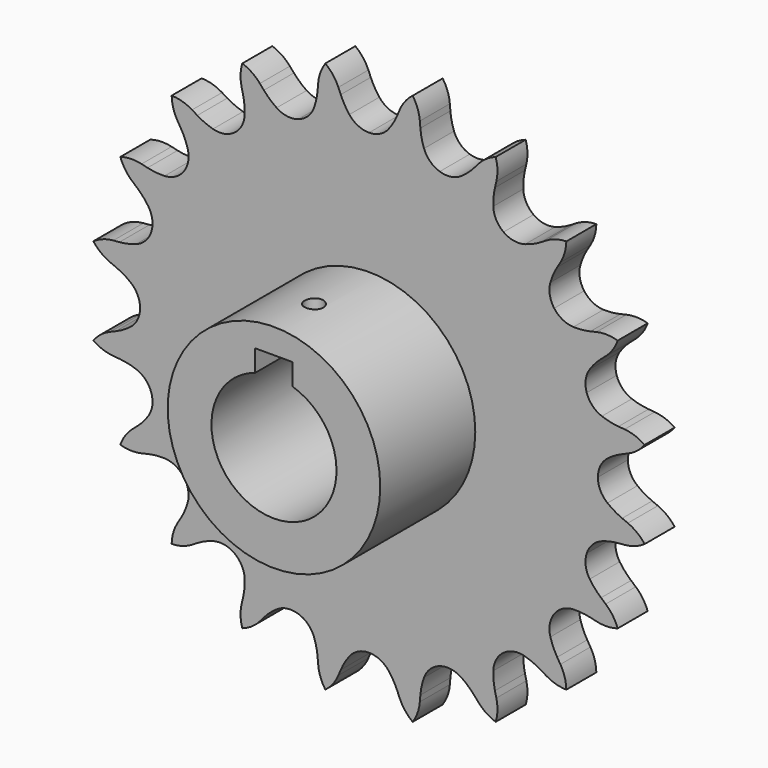
from build123d import *

# Parameters (mm, degrees)
F1_R     = 17
F2_DEPTH = 25
F3_DEPTH = 6
F4_W     = 6
F4_H     = 13
F5_DEPTH = 25
F6_R     = 10
F7_DEPTH = 25
F8_R     = 1.5
F9_DEPTH = 25


with BuildPart() as f2:
    # F1 (on Front) → F2 (new body)
    with BuildSketch(Plane.XZ):
        Circle(F1_R)
    extrude(amount=F2_DEPTH)

    # F0 (on Front) → F3 (join)
    with BuildSketch(Plane.XZ):
        with BuildLine():
            ThreePointArc((0, 36.6108), (-1.745287, 37.013731), (-3.137307, 38.140967))
            ThreePointArc((-3.137307, 38.140967), (-3.905976, 39.272029), (-4.518303, 40.494817))
            Line((-4.518303, 40.494817), (-4.899496, 41.40164))
            ThreePointArc((-4.899496, 41.40164), (-5.764305, 42.881522), (-6.982711, 44.087105))
            ThreePointArc((-6.982711, 44.087105), (-7.768939, 42.564019), (-8.134113, 40.889327))
            Line((-8.134113, 40.889327), (-8.216425, 39.909091))
            ThreePointArc((-8.216425, 39.909091), (-8.42092, 38.556932), (-8.802451, 37.243696))
            ThreePointArc((-8.802451, 37.243696), (-9.778005, 35.741474), (-11.313359, 34.81894))
            ThreePointArc((-11.313359, 34.81894), (-13.097739, 34.662827), (-14.769963, 35.304734))
            ThreePointArc((-14.769963, 35.304734), (-15.850528, 36.142906), (-16.810748, 37.116627))
            Line((-16.810748, 37.116627), (-17.453508, 37.861272))
            ThreePointArc((-17.453508, 37.861272), (-18.733299, 39.001483), (-20.264618, 39.771552))
            ThreePointArc((-20.264618, 39.771552), (-20.541705, 38.080053), (-20.371498, 36.374482))
            Line((-20.371498, 36.374482), (-20.146872, 35.416786))
            ThreePointArc((-20.146872, 35.416786), (-19.923518, 34.067614), (-19.880563, 32.700753))
            ThreePointArc((-19.880563, 32.700753), (-20.344158, 30.970592), (-21.519288, 29.618759))
            ThreePointArc((-21.519288, 29.618759), (-23.168092, 28.918884), (-24.956833, 29.012628))
            ThreePointArc((-24.956833, 29.012628), (-26.243521, 29.475864), (-27.45764, 30.105203))
            Line((-27.45764, 30.105203), (-28.299049, 30.614779))
            ThreePointArc((-28.299049, 30.614779), (-29.868547, 31.303706), (-31.562882, 31.562882))
            ThreePointArc((-31.562882, 31.562882), (-31.303706, 29.868547), (-30.614779, 28.299049))
            Line((-30.614779, 28.299049), (-30.105203, 27.45764))
            ThreePointArc((-30.105203, 27.45764), (-29.475864, 26.243521), (-29.012628, 24.956833))
            ThreePointArc((-29.012628, 24.956833), (-28.918884, 23.168092), (-29.618759, 21.519288))
            ThreePointArc((-29.618759, 21.519288), (-30.970592, 20.344158), (-32.700753, 19.880563))
            ThreePointArc((-32.700753, 19.880563), (-34.067614, 19.923518), (-35.416786, 20.146872))
            Line((-35.416786, 20.146872), (-36.374482, 20.371498))
            ThreePointArc((-36.374482, 20.371498), (-38.080053, 20.541705), (-39.771552, 20.264618))
            ThreePointArc((-39.771552, 20.264618), (-39.001483, 18.733299), (-37.861272, 17.453508))
            Line((-37.861272, 17.453508), (-37.116627, 16.810748))
            ThreePointArc((-37.116627, 16.810748), (-36.142906, 15.850528), (-35.304734, 14.769963))
            ThreePointArc((-35.304734, 14.769963), (-34.662827, 13.097739), (-34.81894, 11.313359))
            ThreePointArc((-34.81894, 11.313359), (-35.741474, 9.778005), (-37.243696, 8.802451))
            ThreePointArc((-37.243696, 8.802451), (-38.556932, 8.42092), (-39.909091, 8.216425))
            Line((-39.909091, 8.216425), (-40.889327, 8.134113))
            ThreePointArc((-40.889327, 8.134113), (-42.564019, 7.768939), (-44.087105, 6.982711))
            ThreePointArc((-44.087105, 6.982711), (-42.881522, 5.764305), (-41.40164, 4.899496))
            Line((-41.40164, 4.899496), (-40.494817, 4.518303))
            ThreePointArc((-40.494817, 4.518303), (-39.272029, 3.905976), (-38.140967, 3.137307))
            ThreePointArc((-38.140967, 3.137307), (-37.013731, 1.745287), (-36.6108, 0))
            ThreePointArc((-36.6108, 0), (-37.013731, -1.745287), (-38.140967, -3.137307))
            ThreePointArc((-38.140967, -3.137307), (-39.272029, -3.905976), (-40.494817, -4.518303))
            Line((-40.494817, -4.518303), (-41.40164, -4.899496))
            ThreePointArc((-41.40164, -4.899496), (-42.881522, -5.764305), (-44.087105, -6.982711))
            ThreePointArc((-44.087105, -6.982711), (-42.564019, -7.768939), (-40.889327, -8.134113))
            Line((-40.889327, -8.134113), (-39.909091, -8.216425))
            ThreePointArc((-39.909091, -8.216425), (-38.556932, -8.42092), (-37.243696, -8.802451))
            ThreePointArc((-37.243696, -8.802451), (-35.741474, -9.778005), (-34.81894, -11.313359))
            ThreePointArc((-34.81894, -11.313359), (-34.662827, -13.097739), (-35.304734, -14.769963))
            ThreePointArc((-35.304734, -14.769963), (-36.142906, -15.850528), (-37.116627, -16.810748))
            Line((-37.116627, -16.810748), (-37.861272, -17.453508))
            ThreePointArc((-37.861272, -17.453508), (-39.001483, -18.733299), (-39.771552, -20.264618))
            ThreePointArc((-39.771552, -20.264618), (-38.080053, -20.541705), (-36.374482, -20.371498))
            Line((-36.374482, -20.371498), (-35.416786, -20.146872))
            ThreePointArc((-35.416786, -20.146872), (-34.067614, -19.923518), (-32.700753, -19.880563))
            ThreePointArc((-32.700753, -19.880563), (-30.970592, -20.344158), (-29.618759, -21.519288))
            ThreePointArc((-29.618759, -21.519288), (-28.918884, -23.168092), (-29.012628, -24.956833))
            ThreePointArc((-29.012628, -24.956833), (-29.475864, -26.243521), (-30.105203, -27.45764))
            Line((-30.105203, -27.45764), (-30.614779, -28.299049))
            ThreePointArc((-30.614779, -28.299049), (-31.303706, -29.868547), (-31.562882, -31.562882))
            ThreePointArc((-31.562882, -31.562882), (-29.868547, -31.303706), (-28.299049, -30.614779))
            Line((-28.299049, -30.614779), (-27.45764, -30.105203))
            ThreePointArc((-27.45764, -30.105203), (-26.243521, -29.475864), (-24.956833, -29.012628))
            ThreePointArc((-24.956833, -29.012628), (-23.168092, -28.918884), (-21.519288, -29.618759))
            ThreePointArc((-21.519288, -29.618759), (-20.344158, -30.970592), (-19.880563, -32.700753))
            ThreePointArc((-19.880563, -32.700753), (-19.923518, -34.067614), (-20.146872, -35.416786))
            Line((-20.146872, -35.416786), (-20.371498, -36.374482))
            ThreePointArc((-20.371498, -36.374482), (-20.541705, -38.080053), (-20.264618, -39.771552))
            ThreePointArc((-20.264618, -39.771552), (-18.733299, -39.001483), (-17.453508, -37.861272))
            Line((-17.453508, -37.861272), (-16.810748, -37.116627))
            ThreePointArc((-16.810748, -37.116627), (-15.850528, -36.142906), (-14.769963, -35.304734))
            ThreePointArc((-14.769963, -35.304734), (-13.097739, -34.662827), (-11.313359, -34.81894))
            ThreePointArc((-11.313359, -34.81894), (-9.778005, -35.741474), (-8.802451, -37.243696))
            ThreePointArc((-8.802451, -37.243696), (-8.42092, -38.556932), (-8.216425, -39.909091))
            Line((-8.216425, -39.909091), (-8.134113, -40.889327))
            ThreePointArc((-8.134113, -40.889327), (-7.768939, -42.564019), (-6.982711, -44.087105))
            ThreePointArc((-6.982711, -44.087105), (-5.764305, -42.881522), (-4.899496, -41.40164))
            Line((-4.899496, -41.40164), (-4.518303, -40.494817))
            ThreePointArc((-4.518303, -40.494817), (-3.905976, -39.272029), (-3.137307, -38.140967))
            ThreePointArc((-3.137307, -38.140967), (-1.745287, -37.013731), (0, -36.6108))
            ThreePointArc((0, -36.6108), (1.745287, -37.013731), (3.137307, -38.140967))
            ThreePointArc((3.137307, -38.140967), (3.905976, -39.272029), (4.518303, -40.494817))
            Line((4.518303, -40.494817), (4.899496, -41.40164))
            ThreePointArc((4.899496, -41.40164), (5.764305, -42.881522), (6.982711, -44.087105))
            ThreePointArc((6.982711, -44.087105), (7.768939, -42.564019), (8.134113, -40.889327))
            Line((8.134113, -40.889327), (8.216425, -39.909091))
            ThreePointArc((8.216425, -39.909091), (8.42092, -38.556932), (8.802451, -37.243696))
            ThreePointArc((8.802451, -37.243696), (9.778005, -35.741474), (11.313359, -34.81894))
            ThreePointArc((11.313359, -34.81894), (13.097739, -34.662827), (14.769963, -35.304734))
            ThreePointArc((14.769963, -35.304734), (15.850528, -36.142906), (16.810748, -37.116627))
            Line((16.810748, -37.116627), (17.453508, -37.861272))
            ThreePointArc((17.453508, -37.861272), (18.733299, -39.001483), (20.264618, -39.771552))
            ThreePointArc((20.264618, -39.771552), (20.541705, -38.080053), (20.371498, -36.374482))
            Line((20.371498, -36.374482), (20.146872, -35.416786))
            ThreePointArc((20.146872, -35.416786), (19.923518, -34.067614), (19.880563, -32.700753))
            ThreePointArc((19.880563, -32.700753), (20.344158, -30.970592), (21.519288, -29.618759))
            ThreePointArc((21.519288, -29.618759), (23.168092, -28.918884), (24.956833, -29.012628))
            ThreePointArc((24.956833, -29.012628), (26.243521, -29.475864), (27.45764, -30.105203))
            Line((27.45764, -30.105203), (28.299049, -30.614779))
            ThreePointArc((28.299049, -30.614779), (29.868547, -31.303706), (31.562882, -31.562882))
            ThreePointArc((31.562882, -31.562882), (31.303706, -29.868547), (30.614779, -28.299049))
            Line((30.614779, -28.299049), (30.105203, -27.45764))
            ThreePointArc((30.105203, -27.45764), (29.475864, -26.243521), (29.012628, -24.956833))
            ThreePointArc((29.012628, -24.956833), (28.918884, -23.168092), (29.618759, -21.519288))
            ThreePointArc((29.618759, -21.519288), (30.970592, -20.344158), (32.700753, -19.880563))
            ThreePointArc((32.700753, -19.880563), (34.067614, -19.923518), (35.416786, -20.146872))
            Line((35.416786, -20.146872), (36.374482, -20.371498))
            ThreePointArc((36.374482, -20.371498), (38.080053, -20.541705), (39.771552, -20.264618))
            ThreePointArc((39.771552, -20.264618), (39.001483, -18.733299), (37.861272, -17.453508))
            Line((37.861272, -17.453508), (37.116627, -16.810748))
            ThreePointArc((37.116627, -16.810748), (36.142906, -15.850528), (35.304734, -14.769963))
            ThreePointArc((35.304734, -14.769963), (34.662827, -13.097739), (34.81894, -11.313359))
            ThreePointArc((34.81894, -11.313359), (35.741474, -9.778005), (37.243696, -8.802451))
            ThreePointArc((37.243696, -8.802451), (38.556932, -8.42092), (39.909091, -8.216425))
            Line((39.909091, -8.216425), (40.889327, -8.134113))
            ThreePointArc((40.889327, -8.134113), (42.564019, -7.768939), (44.087105, -6.982711))
            ThreePointArc((44.087105, -6.982711), (42.881522, -5.764305), (41.40164, -4.899496))
            Line((41.40164, -4.899496), (40.494817, -4.518303))
            ThreePointArc((40.494817, -4.518303), (39.272029, -3.905976), (38.140967, -3.137307))
            ThreePointArc((38.140967, -3.137307), (37.013731, -1.745287), (36.6108, 0))
            ThreePointArc((36.6108, 0), (37.013731, 1.745287), (38.140967, 3.137307))
            ThreePointArc((38.140967, 3.137307), (39.272029, 3.905976), (40.494817, 4.518303))
            Line((40.494817, 4.518303), (41.40164, 4.899496))
            ThreePointArc((41.40164, 4.899496), (42.881522, 5.764305), (44.087105, 6.982711))
            ThreePointArc((44.087105, 6.982711), (42.564019, 7.768939), (40.889327, 8.134113))
            Line((40.889327, 8.134113), (39.909091, 8.216425))
            ThreePointArc((39.909091, 8.216425), (38.556932, 8.42092), (37.243696, 8.802451))
            ThreePointArc((37.243696, 8.802451), (35.741474, 9.778005), (34.81894, 11.313359))
            ThreePointArc((34.81894, 11.313359), (34.662827, 13.097739), (35.304734, 14.769963))
            ThreePointArc((35.304734, 14.769963), (36.142906, 15.850528), (37.116627, 16.810748))
            Line((37.116627, 16.810748), (37.861272, 17.453508))
            ThreePointArc((37.861272, 17.453508), (39.001483, 18.733299), (39.771552, 20.264618))
            ThreePointArc((39.771552, 20.264618), (38.080053, 20.541705), (36.374482, 20.371498))
            Line((36.374482, 20.371498), (35.416786, 20.146872))
            ThreePointArc((35.416786, 20.146872), (34.067614, 19.923518), (32.700753, 19.880563))
            ThreePointArc((32.700753, 19.880563), (30.970592, 20.344158), (29.618759, 21.519288))
            ThreePointArc((29.618759, 21.519288), (28.918884, 23.168092), (29.012628, 24.956833))
            ThreePointArc((29.012628, 24.956833), (29.475864, 26.243521), (30.105203, 27.45764))
            Line((30.105203, 27.45764), (30.614779, 28.299049))
            ThreePointArc((30.614779, 28.299049), (31.303706, 29.868547), (31.562882, 31.562882))
            ThreePointArc((31.562882, 31.562882), (29.868547, 31.303706), (28.299049, 30.614779))
            Line((28.299049, 30.614779), (27.45764, 30.105203))
            ThreePointArc((27.45764, 30.105203), (26.243521, 29.475864), (24.956833, 29.012628))
            ThreePointArc((24.956833, 29.012628), (23.168092, 28.918884), (21.519288, 29.618759))
            ThreePointArc((21.519288, 29.618759), (20.344158, 30.970592), (19.880563, 32.700753))
            ThreePointArc((19.880563, 32.700753), (19.923518, 34.067614), (20.146872, 35.416786))
            Line((20.146872, 35.416786), (20.371498, 36.374482))
            ThreePointArc((20.371498, 36.374482), (20.541705, 38.080053), (20.264618, 39.771552))
            ThreePointArc((20.264618, 39.771552), (18.733299, 39.001483), (17.453508, 37.861272))
            Line((17.453508, 37.861272), (16.810748, 37.116627))
            ThreePointArc((16.810748, 37.116627), (15.850528, 36.142906), (14.769963, 35.304734))
            ThreePointArc((14.769963, 35.304734), (13.097739, 34.662827), (11.313359, 34.81894))
            ThreePointArc((11.313359, 34.81894), (9.778005, 35.741474), (8.802451, 37.243696))
            ThreePointArc((8.802451, 37.243696), (8.42092, 38.556932), (8.216425, 39.909091))
            Line((8.216425, 39.909091), (8.134113, 40.889327))
            ThreePointArc((8.134113, 40.889327), (7.768939, 42.564019), (6.982711, 44.087105))
            ThreePointArc((6.982711, 44.087105), (5.764305, 42.881522), (4.899496, 41.40164))
            Line((4.899496, 41.40164), (4.518303, 40.494817))
            ThreePointArc((4.518303, 40.494817), (3.905976, 39.272029), (3.137307, 38.140967))
            ThreePointArc((3.137307, 38.140967), (1.745287, 37.013731), (0, 36.6108))
        make_face()
    extrude(amount=F3_DEPTH)

    # F4 (on Front) → F5 (cut)
    with BuildSketch(Plane.XZ):
        with Locations((0, 6.5)):
            Rectangle(F4_W, F4_H)
    extrude(amount=F5_DEPTH, mode=Mode.SUBTRACT)

    # F6 (on Front) → F7 (cut)
    with BuildSketch(Plane.XZ):
        Circle(F6_R)
    extrude(amount=F7_DEPTH, mode=Mode.SUBTRACT)

    # F8 (on Top) → F9 (cut)
    with BuildSketch(Plane.XY):
        with Locations((0, -17)):
            Circle(F8_R)
    extrude(amount=F9_DEPTH, mode=Mode.SUBTRACT)


solid = f2.part
